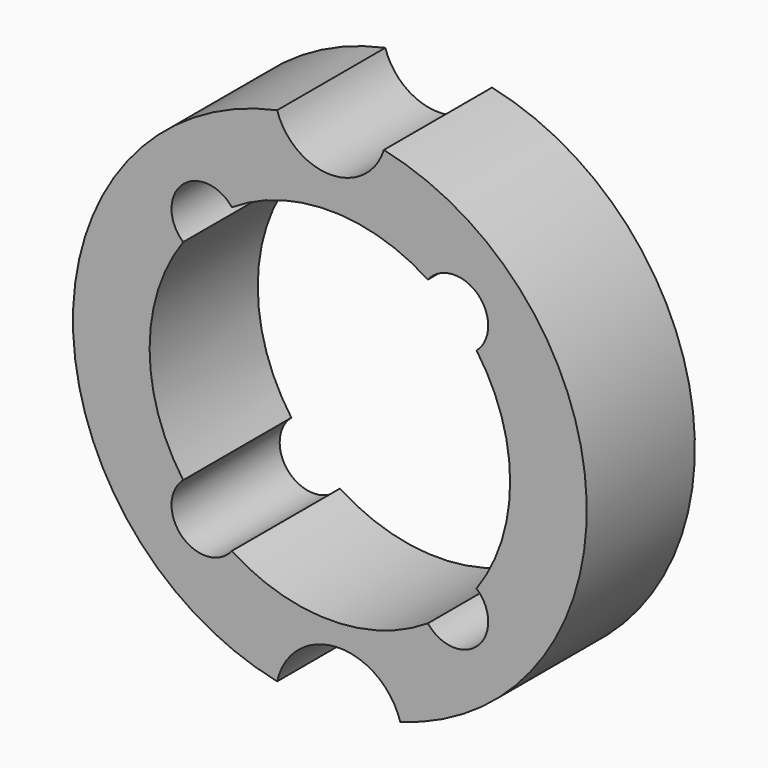
from build123d import *

# Parameters (mm, degrees)
F1_DEPTH = 30


with BuildPart() as f1:
    # F0 (on Front) → F1 (new body)
    with BuildSketch(Plane.XZ):
        with BuildLine():
            ThreePointArc((11.976271, 55.727632), (0.118423, 47.051717), (-11.695602, 55.787211))
            ThreePointArc((-11.695602, 55.787211), (-57, 0), (-11.695602, -55.787211))
            ThreePointArc((-11.695602, -55.787211), (1.58817, -44.777874), (15.618535, -54.81844))
            ThreePointArc((15.618535, -54.81844), (56.969087, 1.877013), (11.976271, 55.727632))
        make_face()
        with BuildLine():
            ThreePointArc((32.547889, 23.251558), (38.09144, 12.208285), (40, 0))
            ThreePointArc((40, 0), (38.09144, -12.208285), (32.547889, -23.251558))
            ThreePointArc((32.547889, -23.251558), (34.457846, -25.803765), (35.135292, -28.91869))
            ThreePointArc((35.135292, -28.91869), (30.096884, -36.00322), (21.751142, -33.56915))
            ThreePointArc((21.751142, -33.56915), (0, -40), (-21.751142, -33.56915))
            ThreePointArc((-21.751142, -33.56915), (-32.816909, -34.340945), (-32.547889, -23.251558))
            ThreePointArc((-32.547889, -23.251558), (-40, 0), (-32.547889, 23.251558))
            ThreePointArc((-32.547889, 23.251558), (-32.816909, 34.340945), (-21.751142, 33.56915))
            ThreePointArc((-21.751142, 33.56915), (0, 40), (21.751142, 33.56915))
            ThreePointArc((21.751142, 33.56915), (30.096884, 36.00322), (35.135292, 28.91869))
            ThreePointArc((35.135292, 28.91869), (34.457846, 25.803765), (32.547889, 23.251558))
        make_face(mode=Mode.SUBTRACT)
    extrude(amount=F1_DEPTH)


solid = f1.part
